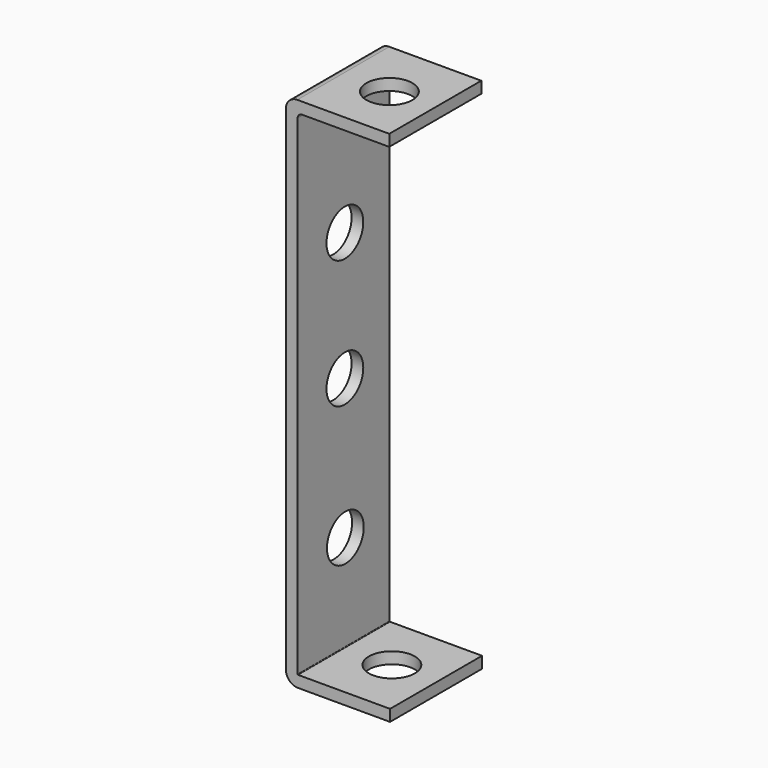
from build123d import *

# Parameters (mm, degrees)
CYLINDER030_R               = 2
CYLINDER030_DEPTH           = 10
CYLINDER030_PITCH_ANGLE     = 90
CYLINDER030_PLACEMENT_ANGLE = 7e-06
CYLINDER031_R               = 2
CYLINDER031_DEPTH           = 10
CYLINDER031_PITCH_ANGLE     = 90
CYLINDER031_PLACEMENT_ANGLE = 7e-06
CYLINDER026_R               = 2
CYLINDER026_DEPTH           = 2
CYLINDER026_ROLL_ANGLE      = -88.507054
CYLINDER026_PITCH_ANGLE     = -87.01751
CYLINDER026_PLACEMENT_ANGLE = -92.244015
CYLINDER028_R               = 2
CYLINDER028_DEPTH           = 2
CYLINDER028_PLACEMENT_ANGLE = 90.00001
CYLINDER029_R               = 2
CYLINDER029_DEPTH           = 2
CYLINDER029_ROLL_ANGLE      = 90
CYLINDER027_R               = 2
CYLINDER027_DEPTH           = 2
CYLINDER027_ROLL_ANGLE      = 90
CYLINDER025_R               = 2
CYLINDER025_DEPTH           = 2
CYLINDER025_ROLL_ANGLE      = -88.507054
CYLINDER025_PITCH_ANGLE     = -87.01751
CYLINDER025_PLACEMENT_ANGLE = -92.244015
PAD006_DEPTH                = 10
CUT035_PITCH_ANGLE          = 90
CUT035_PLACEMENT_ANGLE      = -90


with BuildPart() as cylinder030:
    # Cylinder030 → Cylinder030 (new body)
    with BuildSketch(Plane.XY):
        Circle(CYLINDER030_R)
    extrude(amount=CYLINDER030_DEPTH)


with BuildPart() as cylinder030_1:
    # Cylinder030 pitch: moved
    add(cylinder030.part.rotate(Axis((0, 0, 0), (0, 1, 0)), CYLINDER030_PITCH_ANGLE))


with BuildPart() as cylinder030_2:
    # Cylinder030 placement: moved
    add(cylinder030_1.part.moved(Location((15.49, 3.9, 4.87))).rotate(Axis((15.49, 3.9, 4.87), (0, 0, 1)), CYLINDER030_PLACEMENT_ANGLE))


with BuildPart() as cylinder031:
    # Cylinder031 → Cylinder031 (new body)
    with BuildSketch(Plane.XY):
        Circle(CYLINDER031_R)
    extrude(amount=CYLINDER031_DEPTH)


with BuildPart() as cylinder031_1:
    # Cylinder031 pitch: moved
    add(cylinder031.part.rotate(Axis((0, 0, 0), (0, 1, 0)), CYLINDER031_PITCH_ANGLE))


with BuildPart() as cylinder031_2:
    # Cylinder031 placement: moved
    add(cylinder031_1.part.moved(Location((-28.4147, 3.9, 5.14))).rotate(Axis((-28.4147, 3.9, 5.14), (0, 0, 1)), CYLINDER031_PLACEMENT_ANGLE))


with BuildPart() as cylinder026:
    # Cylinder026 → Cylinder026 (new body)
    with BuildSketch(Plane.XY):
        Circle(CYLINDER026_R)
    extrude(amount=CYLINDER026_DEPTH)


with BuildPart() as cylinder026_1:
    # Cylinder026 roll: moved
    add(cylinder026.part.rotate(Axis((0, 0, 0), (1, 0, 0)), CYLINDER026_ROLL_ANGLE))


with BuildPart() as cylinder026_2:
    # Cylinder026 pitch: moved
    add(cylinder026_1.part.rotate(Axis((0, 0, 0), (0, 1, 0)), CYLINDER026_PITCH_ANGLE))


with BuildPart() as cylinder026_3:
    # Cylinder026 placement: moved
    add(cylinder026_2.part.moved(Location((-26, 5.29, 4.9))).rotate(Axis((-26, 5.29, 4.9), (0, 0, 1)), CYLINDER026_PLACEMENT_ANGLE))


with BuildPart() as cylinder028:
    # Cylinder028 → Cylinder028 (new body)
    with BuildSketch(Plane.XY):
        Circle(CYLINDER028_R)
    extrude(amount=CYLINDER028_DEPTH)


with BuildPart() as cylinder028_1:
    # Cylinder028 placement: moved
    add(cylinder028.part.moved(Location((-11.1555, 0, 4.86401))).rotate(Axis((-11.1555, 0, 4.86401), (1, 0, 0)), CYLINDER028_PLACEMENT_ANGLE))


with BuildPart() as cylinder029:
    # Cylinder029 → Cylinder029 (new body)
    with BuildSketch(Plane.XY):
        Circle(CYLINDER029_R)
    extrude(amount=CYLINDER029_DEPTH)


with BuildPart() as cylinder029_1:
    # Cylinder029 roll: moved
    add(cylinder029.part.rotate(Axis((0, 0, 0), (1, 0, 0)), CYLINDER029_ROLL_ANGLE))


with BuildPart() as cylinder029_2:
    # Cylinder029 placement: moved
    add(cylinder029_1.part.moved(Location((0, 0, 4.86401))))


with BuildPart() as cylinder027:
    # Cylinder027 → Cylinder027 (new body)
    with BuildSketch(Plane.XY):
        Circle(CYLINDER027_R)
    extrude(amount=CYLINDER027_DEPTH)


with BuildPart() as cylinder027_1:
    # Cylinder027 roll: moved
    add(cylinder027.part.rotate(Axis((0, 0, 0), (1, 0, 0)), CYLINDER027_ROLL_ANGLE))


with BuildPart() as cylinder027_2:
    # Cylinder027 placement: moved
    add(cylinder027_1.part.moved(Location((12.2129, 0, 4.81114))))


with BuildPart() as cylinder025:
    # Cylinder025 → Cylinder025 (new body)
    with BuildSketch(Plane.XY):
        Circle(CYLINDER025_R)
    extrude(amount=CYLINDER025_DEPTH)


with BuildPart() as cylinder025_1:
    # Cylinder025 roll: moved
    add(cylinder025.part.rotate(Axis((0, 0, 0), (1, 0, 0)), CYLINDER025_ROLL_ANGLE))


with BuildPart() as cylinder025_2:
    # Cylinder025 pitch: moved
    add(cylinder025_1.part.rotate(Axis((0, 0, 0), (0, 1, 0)), CYLINDER025_PITCH_ANGLE))


with BuildPart() as cylinder025_3:
    # Cylinder025 placement: moved
    add(cylinder025_2.part.moved(Location((25, 5.38, 4.9))).rotate(Axis((25, 5.38, 4.9), (0, 0, 1)), CYLINDER025_PLACEMENT_ANGLE))


with BuildPart() as cut035:
    # Sketch007 → Pad006 (new body)
    with BuildSketch(Plane.XY):
        with BuildLine():
            Line((20.546084, -1.208272), (-22.415471, -1.208272))
            ThreePointArc((-23.400725, -0.223018), (-23.112151, -0.919698), (-22.415471, -1.208272))
            Line((-23.400725, 7.776982), (-23.400725, -0.223018))
            Line((-23.400725, 7.776982), (-22.400725, 7.776982))
            Line((-22.400725, 7.776982), (-22.400725, 0.197829))
            ThreePointArc((-22.400725, 0.197829), (-22.286166, -0.07874), (-22.009596, -0.193299))
            Line((-22.009596, -0.193299), (20.555186, -0.193299))
            ThreePointArc((20.555186, -0.193299), (20.586324, -0.180401), (20.599222, -0.149263))
            Line((20.599222, 7.844865), (20.599222, -0.149263))
            Line((21.599222, 7.844865), (20.599222, 7.844865))
            Line((21.599222, 7.844865), (21.599222, -0.155135))
            ThreePointArc((20.546084, -1.208272), (21.290765, -0.899815), (21.599222, -0.155135))
        make_face()
    extrude(amount=PAD006_DEPTH)

    # Cut005: cut Cylinder025
    add(cylinder025_3.part, mode=Mode.SUBTRACT)

    # Cut006: cut Cylinder027
    add(cylinder027_2.part, mode=Mode.SUBTRACT)

    # Cut007: cut Cylinder029
    add(cylinder029_2.part, mode=Mode.SUBTRACT)

    # Cut008: cut Cylinder028
    add(cylinder028_1.part, mode=Mode.SUBTRACT)

    # Cut009: cut Cylinder026
    add(cylinder026_3.part, mode=Mode.SUBTRACT)

    # Cut018: cut Cylinder031
    add(cylinder031_2.part, mode=Mode.SUBTRACT)

    # Cut035: cut Cylinder030
    add(cylinder030_2.part, mode=Mode.SUBTRACT)


with BuildPart() as cut035_1:
    # Cut035 pitch: moved
    add(cut035.part.rotate(Axis((0, 0, 0), (0, 1, 0)), CUT035_PITCH_ANGLE))


with BuildPart() as cut035_2:
    # Cut035 placement: moved
    add(cut035_1.part.moved(Location((-113.675, 44.2743, 126))).rotate(Axis((-113.675, 44.2743, 126), (0, 0, 1)), CUT035_PLACEMENT_ANGLE))


solid = cut035_2.part
